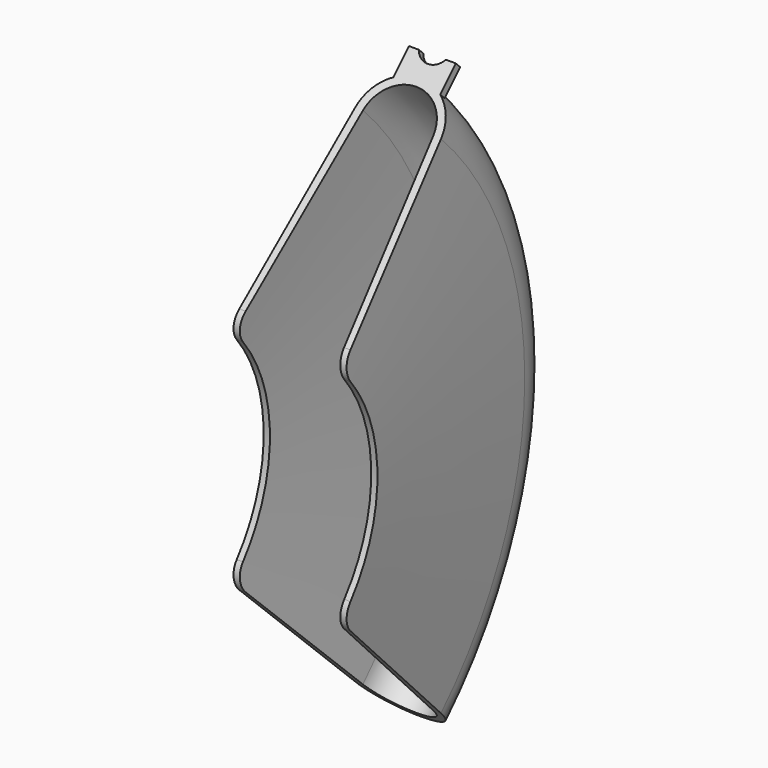
from build123d import *

# Parameters (mm, degrees)
REVOLUTION_ANGLE = 90
SKETCH001_W      = 30
SKETCH001_H      = 18.068252
PAD_DEPTH        = 5
SKETCH002_R      = 9.75
POCKET_DEPTH     = 5
FILLET_R         = 13
FILLET001_R      = 13


with BuildPart() as part:
    # Sketch → Revolution (revolve, symmetric)
    with BuildSketch(Plane.XY) as revolution_sk:
        with BuildLine():
            ThreePointArc((27.507267, 229.338864), (0, 255), (-27.507267, 229.338864))
            Line((-36.5, 100), (-27.507267, 229.338864))
            Line((-36.5, 100), (-32.5, 100))
            Line((-32.5, 100), (-22.5, 229.239629))
            ThreePointArc((22.5, 229.239629), (0, 250.06593), (-22.5, 229.239629))
            Line((22.5, 229.239629), (32.5, 100))
            Line((32.5, 100), (36.5, 100))
            Line((36.5, 100), (27.507267, 229.338864))
        make_face()
    revolve(axis=Axis((0, 0, 0), (1, 0, 0)), revolution_arc=REVOLUTION_ANGLE / 2)
    revolve(revolution_sk.sketch, axis=Axis((0, 0, 0), (-1, 0, 0)), revolution_arc=REVOLUTION_ANGLE / 2)

    # Sketch001 (on Face1 of CopyFusion) → Pad (new body)
    with BuildSketch(Plane(origin=(0, 0, 0), x_dir=(1, 0, 0), z_dir=(0, -0.707107, 0.707107))):
        with Locations((0, 259.214452)):
            Rectangle(SKETCH001_W, SKETCH001_H)
    extrude(amount=-PAD_DEPTH)

    # Sketch002 (on Face15 of Pad) → Pocket (cut)
    with BuildSketch(Plane(origin=(0, 0, 0), x_dir=(1, 0, 0), z_dir=(0, -0.707107, 0.707107))):
        with Locations((0, 272.75)):
            Circle(SKETCH002_R)
    extrude(amount=-POCKET_DEPTH, mode=Mode.SUBTRACT)

    # Fillet
    fillet_edges = [part.edges().sort_by_distance(p)[0] for p in [
        (-34.5, 70.710678, -70.710678),
        (34.5, 70.710678, -70.710678),
    ]]
    fillet(fillet_edges, radius=FILLET_R)

    # Fillet001
    fillet001_edges = [part.edges().sort_by_distance(p)[0] for p in [
        (-34.5, 70.710678, 70.710678),
        (34.5, 70.710678, 70.710678),
    ]]
    fillet(fillet001_edges, radius=FILLET001_R)


solid = part.part
